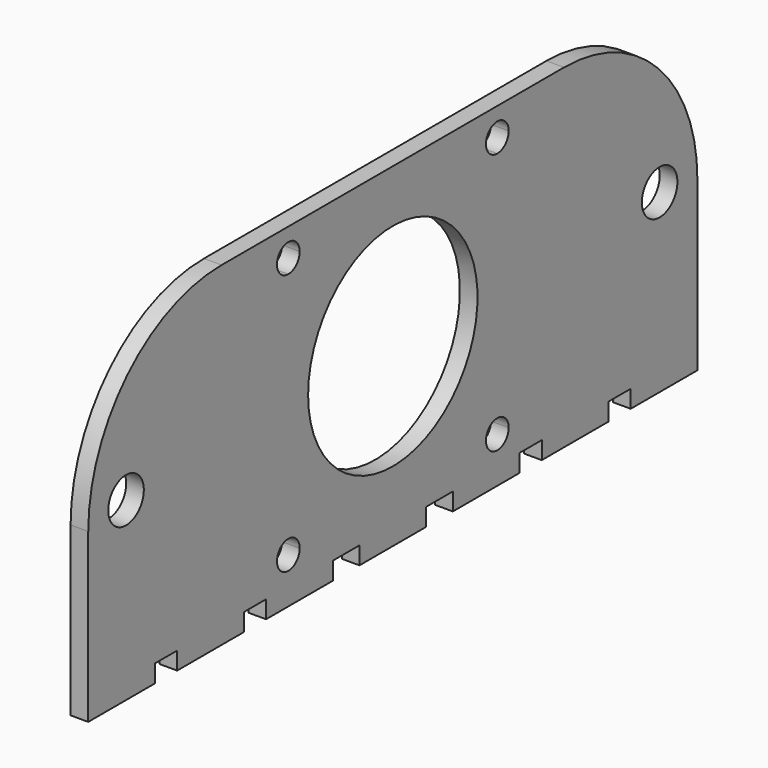
from build123d import *

# Parameters (mm, degrees)
F0_R     = 4
F0_W     = 15
F0_H     = 3.175
F0_W_2   = 7.5
F1_DEPTH = 3.175


with BuildPart() as f1:
    # F0 (on Right) → F1 (new body)
    with BuildSketch(Plane.YZ):
        with BuildLine():
            ThreePointArc((19.05, 0), (0, 19.05), (-19.05, 0))
            ThreePointArc((-19.05, 0), (0, -19.05), (19.05, 0))
        make_face()
        with BuildLine():
            Line((-23.5, 20.95), (-23.5, 0))
            Line((-23.5, 0), (-23.5, -20.95))
            ThreePointArc((-23.5, -20.95), (-21.696878, -21.696878), (-20.95, -23.5))
            Line((-20.95, -23.5), (20.95, -23.5))
            ThreePointArc((20.95, -23.5), (21.696878, -21.696878), (23.5, -20.95))
            Line((23.5, -20.95), (23.5, 20.95))
            ThreePointArc((23.5, 20.95), (21.696878, 21.696878), (20.95, 23.5))
            Line((20.95, 23.5), (-20.95, 23.5))
            ThreePointArc((-20.95, 23.5), (-21.696878, 21.696878), (-23.5, 20.95))
        make_face()
        with BuildLine():
            ThreePointArc((19.05, 0), (0, -19.05), (-19.05, 0))
            ThreePointArc((-19.05, 0), (0, 19.05), (19.05, 0))
        make_face(mode=Mode.SUBTRACT)
        Polygon((28.5, 28.5), (-28.5, 28.5), (-28.5, 0), (-28.5, -28.5), (-13.5, -28.5), (-7.5, -28.5), (0, -28.5), (7.5, -28.5), (13.5, -28.5), (28.5, -28.5), align=None)
        with BuildLine():
            Line((-23.5, -20.95), (-23.5, 0))
            Line((-23.5, 0), (-23.5, 20.95))
            ThreePointArc((-23.5, 20.95), (-25.303122, 25.303122), (-20.95, 23.5))
            Line((-20.95, 23.5), (20.95, 23.5))
            ThreePointArc((20.95, 23.5), (23.5, 26.05), (26.05, 23.5))
            ThreePointArc((26.05, 23.5), (25.303122, 21.696878), (23.5, 20.95))
            Line((23.5, 20.95), (23.5, -20.95))
            ThreePointArc((23.5, -20.95), (25.303122, -21.696878), (26.05, -23.5))
            ThreePointArc((26.05, -23.5), (23.5, -26.05), (20.95, -23.5))
            Line((20.95, -23.5), (-20.95, -23.5))
            ThreePointArc((-20.95, -23.5), (-25.303122, -25.303122), (-23.5, -20.95))
        make_face(mode=Mode.SUBTRACT)
        with Locations((-60, 0)):
            Circle(F0_R)
        with BuildLine():
            Line((-28.5, 0), (-28.5, 28.5))
            Line((-28.5, 28.5), (-38.5, 28.5))
            ThreePointArc((-38.5, 28.5), (-59.713203, 19.713203), (-68.5, -1.5))
            Line((-68.5, -1.5), (-68.5, -28.5))
            Line((-68.5, -28.5), (-53.5, -28.5))
            Line((-53.5, -28.5), (-48.5, -28.5))
            Line((-48.5, -28.5), (-41, -28.5))
            Line((-41, -28.5), (-33.5, -28.5))
            Line((-33.5, -28.5), (-28.5, -28.5))
            Line((-28.5, -28.5), (-28.5, 0))
        make_face()
        with Locations((-60, 0)):
            Circle(F0_R, mode=Mode.SUBTRACT)
        with BuildLine():
            Line((38.5, 28.5), (28.5, 28.5))
            Line((28.5, 28.5), (28.5, -28.5))
            Line((28.5, -28.5), (33.5, -28.5))
            Line((33.5, -28.5), (48.5, -28.5))
            Line((48.5, -28.5), (53.5, -28.5))
            Line((53.5, -28.5), (68.5, -28.5))
            Line((68.5, -28.5), (68.5, -1.5))
            ThreePointArc((68.5, -1.5), (59.713203, 19.713203), (38.5, 28.5))
        make_face()
        with Locations((60, 0)):
            Circle(F0_R, mode=Mode.SUBTRACT)
        with Locations((21, -30.0875)):
            Rectangle(F0_W, F0_H)
        with Locations((-21, -30.0875)):
            Rectangle(F0_W, F0_H)
        Polygon((48.5, -28.5), (33.5, -28.5), (33.5, -31.675), (41, -31.675), (48.5, -31.675), align=None)
        with Locations((-37.25, -30.0875)):
            Rectangle(F0_W_2, F0_H)
        with Locations((-61, -30.0875)):
            Rectangle(F0_W, F0_H)
        with Locations((3.75, -30.0875)):
            Rectangle(F0_W_2, F0_H)
        with Locations((61, -30.0875)):
            Rectangle(F0_W, F0_H)
        with Locations((-3.75, -30.0875)):
            Rectangle(F0_W_2, F0_H)
        with Locations((-44.75, -30.0875)):
            Rectangle(F0_W_2, F0_H)
        with BuildLine():
            Line((-23.5, 20.95), (-23.5, 0))
            Line((-23.5, 0), (-23.5, -20.95))
            ThreePointArc((-23.5, -20.95), (-21.696878, -21.696878), (-20.95, -23.5))
            Line((-20.95, -23.5), (20.95, -23.5))
            ThreePointArc((20.95, -23.5), (21.696878, -21.696878), (23.5, -20.95))
            Line((23.5, -20.95), (23.5, 20.95))
            ThreePointArc((23.5, 20.95), (21.696878, 21.696878), (20.95, 23.5))
            Line((20.95, 23.5), (-20.95, 23.5))
            ThreePointArc((-20.95, 23.5), (-21.696878, 21.696878), (-23.5, 20.95))
        make_face()
        with BuildLine():
            ThreePointArc((19.05, 0), (0, -19.05), (-19.05, 0))
            ThreePointArc((-19.05, 0), (0, 19.05), (19.05, 0))
        make_face(mode=Mode.SUBTRACT)
    extrude(amount=F1_DEPTH)


solid = f1.part
